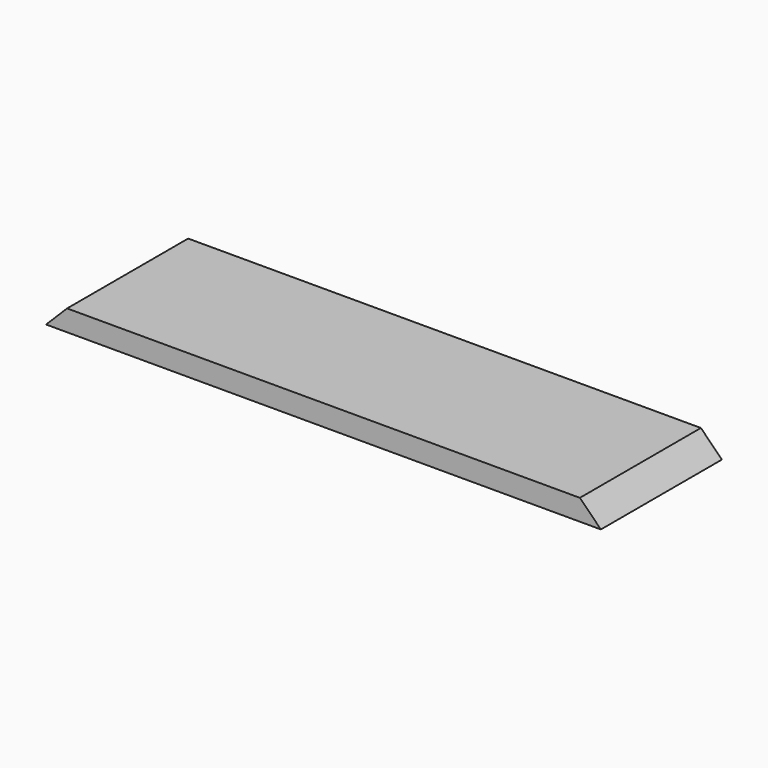
from build123d import *

# Parameters (mm, degrees)
F0_W     = 419.1
F0_H     = 114.3
F1_DEPTH = 15.875
F3_DEPTH = 114.301


with BuildPart() as f1:
    # F0 (on Top) → F1 (new body)
    with BuildSketch(Plane.XY):
        Rectangle(F0_W, F0_H)
    extrude(amount=F1_DEPTH)

    # F2 (on face) → F3 (cut, through all)
    with BuildSketch(Plane.XZ.offset(57.15)):
        Polygon((-226.020381, 0), (-209.55, 0), (-193.675, 15.875), (-193.675, 49.047567), (-226.020381, 49.047567), align=None)
        Polygon((226.020381, 49.047567), (193.675, 49.047567), (193.675, 15.875), (209.55, 0), (226.020381, 0), align=None)
    extrude(amount=-F3_DEPTH, mode=Mode.SUBTRACT)


solid = f1.part
